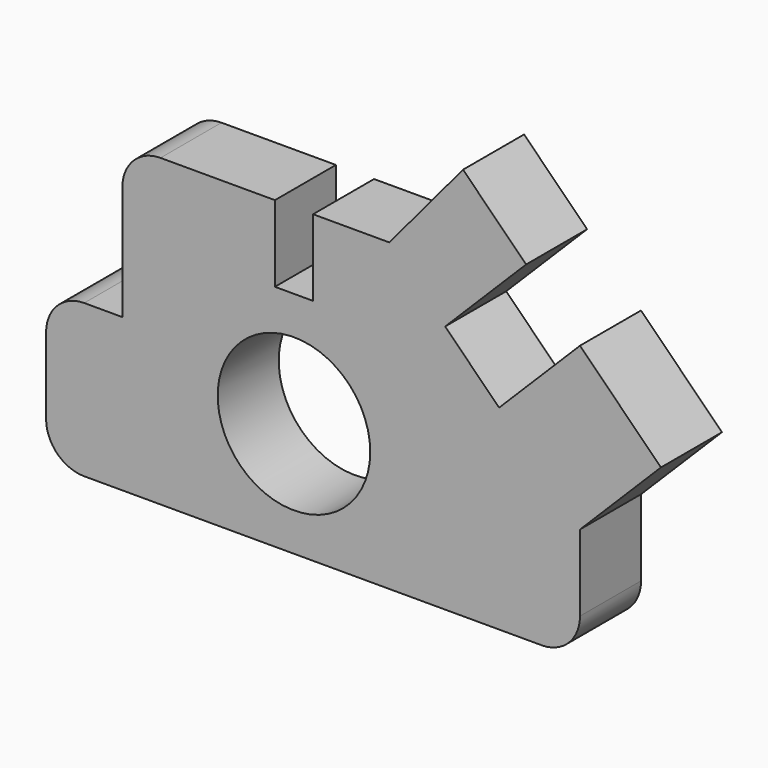
from build123d import *

# Parameters (mm, degrees)
F0_R     = 254
F1_DEPTH = 254


with BuildPart() as f1:
    # F0 (on Front) → F1 (new body)
    with BuildSketch(Plane.XZ):
        with BuildLine():
            ThreePointArc((0, 127), (37.197439, 37.197439), (127, 0))
            Line((127, 0), (1651, 0))
            ThreePointArc((1651, 0), (1740.802561, 37.197439), (1778, 127))
            Line((1778, 127), (1778, 381))
            Line((1778, 381), (2047.407684, 650.407684))
            Line((2047.407684, 650.407684), (1778, 919.815367))
            Line((1778, 919.815367), (1508.592316, 650.407684))
            Line((1508.592316, 650.407684), (1328.987194, 830.012806))
            Line((1328.987194, 830.012806), (1598.394878, 1099.42049))
            Line((1598.394878, 1099.42049), (1388.600741, 1309.214626))
            Line((1388.600741, 1309.214626), (1143, 1016))
            Line((1143, 1016), (889, 1016))
            Line((889, 1016), (889, 762))
            Line((889, 762), (762, 762))
            Line((762, 762), (762, 1016))
            Line((762, 1016), (381, 1016))
            ThreePointArc((381, 1016), (291.197439, 978.802561), (254, 889))
            Line((254, 889), (254, 508))
            Line((254, 508), (127, 508))
            ThreePointArc((127, 508), (37.197439, 470.802561), (0, 381))
            Line((0, 381), (0, 127))
        make_face()
        with Locations((825.5, 381)):
            Circle(F0_R, mode=Mode.SUBTRACT)
    extrude(amount=F1_DEPTH)


solid = f1.part
